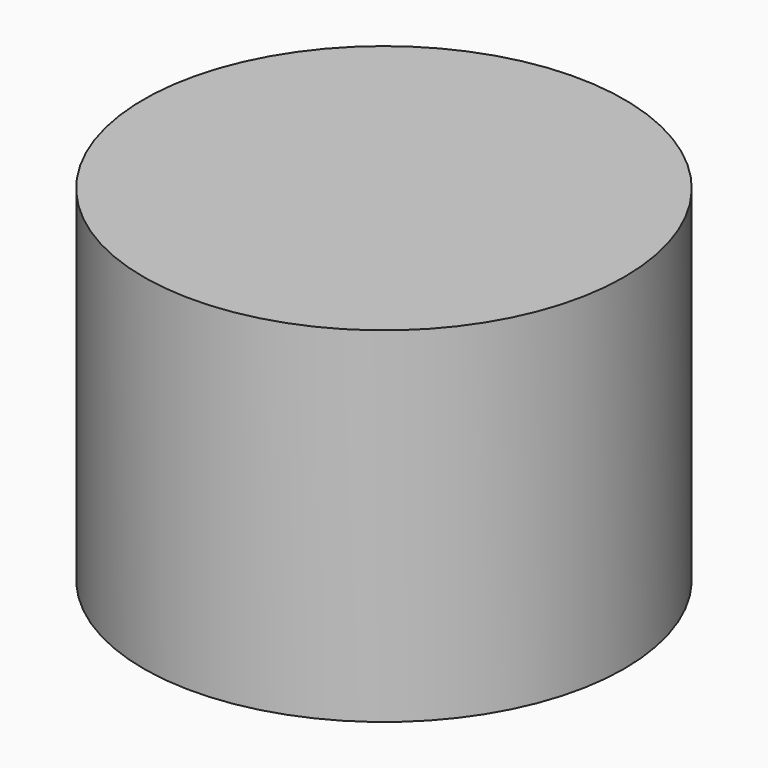
from build123d import *

# Parameters (mm, degrees)
F0_R            = 17.4272984751
F1_DEPTH        = 25
F2_R            = 14.9051186422
F3_DEPTH        = 15.9
F4_R            = 0.9
F5_DEPTH        = 5
F6_R            = 12.9181741615
F7_DEPTH        = 10
F9_W            = 7
F9_H            = 7
F10_DEPTH       = 5
F11_D           = 1.8
F11_DEPTH       = 5
F11_START       = 5
F11_CSINK_D     = 3.9
F11_CSINK_ANGLE = 76.734
F11_TIP         = 0.5407745571


with BuildPart() as f1:
    # F0 (on Top) → F1 (new body)
    with BuildSketch(Plane.XY):
        Circle(F0_R)
    extrude(amount=F1_DEPTH)

    # F2 (on face) → F3 (cut)
    with BuildSketch(Plane(origin=(0, 0, 0), x_dir=(1, 0, 0), z_dir=(0, 0, -1))):
        Circle(F2_R)
    extrude(amount=-F3_DEPTH, mode=Mode.SUBTRACT)

    # F4 (on face) → F5 (cut)
    with BuildSketch(Plane(origin=(0, 0, 15.9), x_dir=(1, 0, 0), z_dir=(0, 0, -1))):
        Circle(F4_R)
    extrude(amount=-F5_DEPTH, mode=Mode.SUBTRACT)


with BuildPart() as f7:
    # F6 (on face) → F7 (new body)
    with BuildSketch(Plane(origin=(0, 0, 15.9), x_dir=(1, 0, 0), z_dir=(0, 0, -1))):
        Circle(F6_R)
    extrude(amount=F7_DEPTH)

    # F9 (on face) → F10 (cut)
    with BuildSketch(Plane(origin=(0, 0, 5.9), x_dir=(1, 0, 0), z_dir=(0, 0, -1))):
        Rectangle(F9_W, F9_H)
    extrude(amount=-F10_DEPTH, mode=Mode.SUBTRACT)

    # F11
    # its depths count from where the whole tool has entered the part; down to there all is cleared
    with Locations(Plane(origin=(0, 0, 5.9), x_dir=(1, 0, 0), z_dir=(0, 0, -1)).offset(-F11_START)):
        with Locations((0, 0)):
            CounterSinkHole(F11_D / 2, F11_CSINK_D / 2, depth=F11_DEPTH, counter_sink_angle=F11_CSINK_ANGLE)
            with Locations((0, 0, -(F11_DEPTH + F11_TIP / 2))):  # 118° drill point
                Cone(0, F11_D / 2, F11_TIP, mode=Mode.SUBTRACT)


solid = Compound([f1.part, f7.part])
